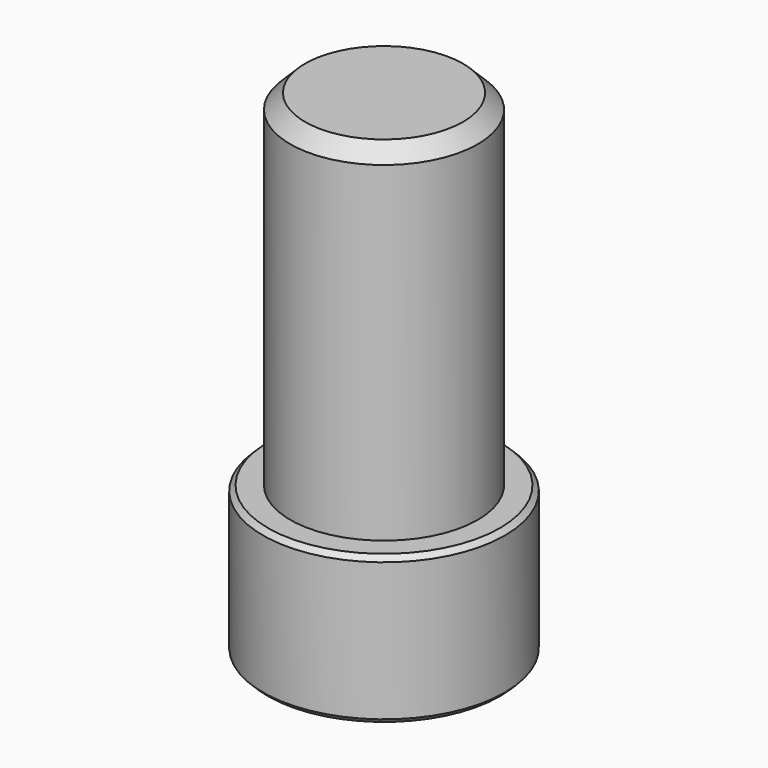
from build123d import *

# Parameters (mm, degrees)
F0_R     = 1.9
F1_DEPTH = 10
F0_R_2   = 2.45
F2_DEPTH = 3
F3_SIZE  = 0.3
F4_SIZE  = 0.1


with BuildPart() as f1:
    # F0 (on Top) → F1 (new body)
    with BuildSketch(Plane.XY):
        Circle(F0_R)
    extrude(amount=F1_DEPTH)

    # F0 (on Top) → F2 (join)
    with BuildSketch(Plane.XY):
        Circle(F0_R_2)
        Circle(F0_R, mode=Mode.SUBTRACT)
    extrude(amount=F2_DEPTH)

    # F3
    f3_edges = [f1.edges().sort_by_distance(p)[0] for p in [
        (-1.9, 0, 10),
    ]]
    chamfer(f3_edges, length=F3_SIZE)

    # F4
    f4_edges = [f1.edges().sort_by_distance(p)[0] for p in [
        (-2.45, 0, 0),
        (-2.45, 0, 3),
    ]]
    chamfer(f4_edges, length=F4_SIZE)


solid = f1.part
